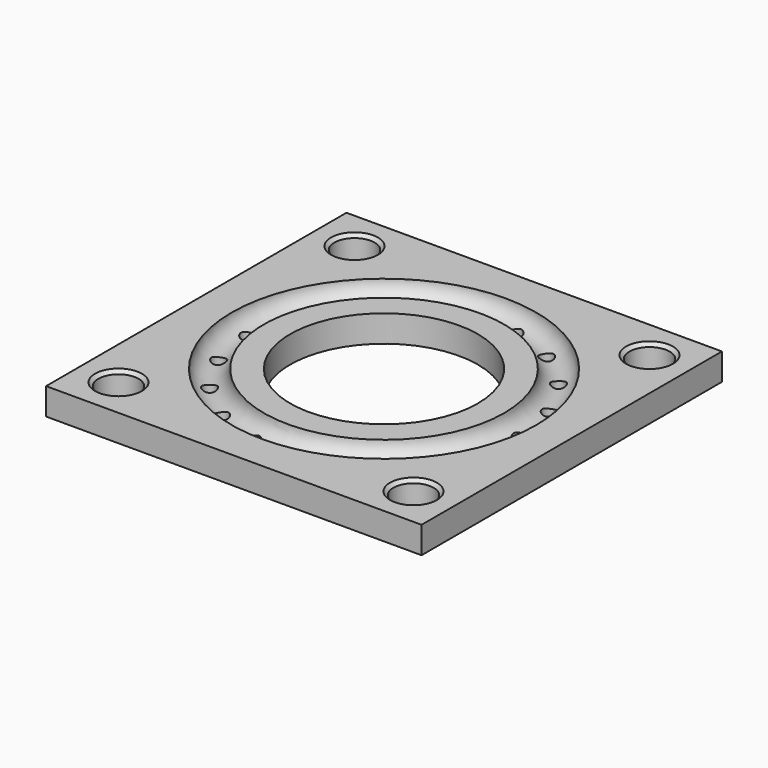
from build123d import *

# Parameters (mm, degrees)
SKETCH_W              = 177.8
SKETCH_H              = 177.8
PAD_DEPTH             = 12.7
SKETCH001_R           = 7.62
SKETCH002_R           = 3.175
POCKET_DEPTH          = 516.236381
POLARPATTERN_COUNT    = 18
SKETCH003_R           = 9.525
POCKET001_DEPTH       = 516.236381
POLARPATTERN001_COUNT = 4
CHAMFER_SIZE          = 1.5875
SKETCH004_R           = 44.45
POCKET002_DEPTH       = 12.701


with BuildPart() as part:
    # Sketch → Pad (new body)
    with BuildSketch(Plane.XY):
        Rectangle(SKETCH_W, SKETCH_H)
    extrude(amount=PAD_DEPTH)

    # Sketch001 → Groove (revolve, cut)
    with BuildSketch(Plane.XZ):
        with Locations((64.516, 12.7)):
            Circle(SKETCH001_R)
    revolve(axis=Axis((0, 0, 0), (0, 0, 1)), mode=Mode.SUBTRACT)

    # Sketch002 (on Face4 of Groove) → Pocket (cut, through all)
    with BuildSketch(Plane(origin=(0, 0, 0), x_dir=(1, 0, 0), z_dir=(0, 0, -1))):
        with Locations((64.516, 0)):
            Circle(SKETCH002_R)
    pocket = extrude(amount=-POCKET_DEPTH, mode=Mode.SUBTRACT)

    # PolarPattern: Pocket ×18 about axis
    polarpattern_axis = Axis((0, 0, 0), (0, 0, -1))
    for i in range(1, POLARPATTERN_COUNT):
        add(pocket.rotate(polarpattern_axis, i * 360 / POLARPATTERN_COUNT), mode=Mode.SUBTRACT)

    # Sketch003 (on Face5 of PolarPattern) → Pocket001 (cut, through all)
    with BuildSketch(Plane.XY.offset(12.7)):
        with Locations((-69.85, 69.85)):
            Circle(SKETCH003_R)
    pocket001 = extrude(amount=-POCKET001_DEPTH, mode=Mode.SUBTRACT)

    # PolarPattern001: Pocket001 ×4 about axis
    polarpattern001_axis = Axis((0, 0, 12.7), (0, 0, 1))
    for i in range(1, POLARPATTERN001_COUNT):
        add(pocket001.rotate(polarpattern001_axis, i * 360 / POLARPATTERN001_COUNT), mode=Mode.SUBTRACT)

    # Chamfer
    chamfer_edges = [part.edges().sort_by_distance(p)[0] for p in [
        (-69.85, -79.375, 12.7),
        (79.375, -69.85, 12.7),
        (69.85, 79.375, 12.7),
        (-79.375, 69.85, 12.7),
    ]]
    chamfer(chamfer_edges, length=CHAMFER_SIZE)

    # Sketch004 (on Face13 of Chamfer) → Pocket002 (cut, through all)
    with BuildSketch(Plane.XY.offset(12.7)):
        Circle(SKETCH004_R)
    extrude(amount=-POCKET002_DEPTH, mode=Mode.SUBTRACT)


solid = part.part
